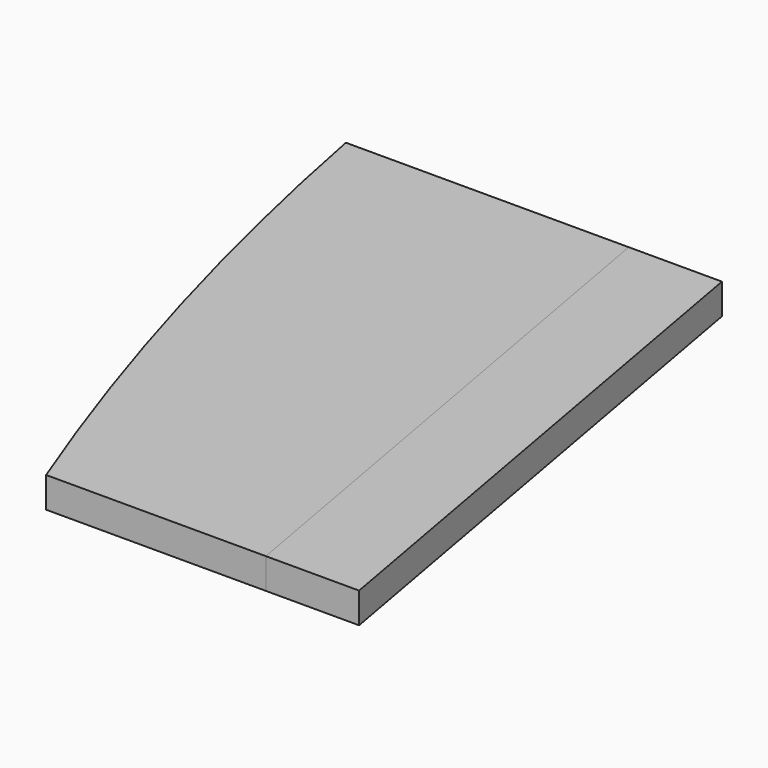
from build123d import *

# Parameters (mm, degrees)
F1_DEPTH = 101.6
F2_DEPTH = 101.6


with BuildPart() as f1:
    # F0 (on Top) → F1 (new body)
    with BuildSketch(Plane.XY):
        with BuildLine():
            Line((-660.291761, -971.84177), (-939.8, 0))
            ThreePointArc((-939.8, 0), (-834.708295, -488.509695), (-707.916761, -971.84177))
            Line((-707.916761, -971.84177), (-660.291761, -971.84177))
        make_face()
        Polygon((174.733239, -971.84177), (0, 0), (-939.8, 0), (-660.291761, -971.84177), align=None)
        with BuildLine():
            Line((-380.783523, -1943.68354), (-660.291761, -971.84177))
            Line((-660.291761, -971.84177), (-707.916761, -971.84177))
            ThreePointArc((-707.916761, -971.84177), (-555.48596, -1461.511101), (-380.783523, -1943.68354))
        make_face()
        Polygon((349.466477, -1943.68354), (174.733239, -971.84177), (-660.291761, -971.84177), (-380.783523, -1943.68354), align=None)
    extrude(amount=F1_DEPTH)


with BuildPart() as f2:
    # F0 (on Top) → F2 (new body)
    with BuildSketch(Plane.XY):
        Polygon((309.687389, 0), (0, 0), (174.733239, -971.84177), (349.466477, -1943.68354), (659.153866, -1943.68354), align=None)
    extrude(amount=F2_DEPTH)


solid = Compound([f1.part, f2.part])
